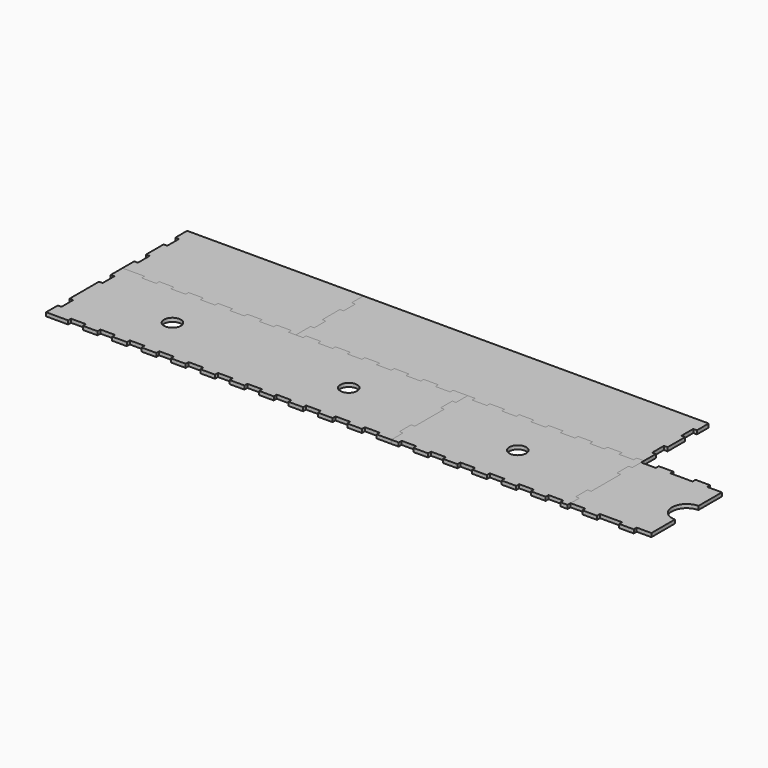
from build123d import *

# Parameters (mm, degrees)
F0_R     = 14.605
F1_DEPTH = 6.35
F2_R     = 14.605
F3_DEPTH = 6.35
F4_W     = 25.4
F4_H     = 6.35
F4_W_2   = 12.7
F5_DEPTH = 6.35
F6_W     = 6.35
F6_H     = 25.4
F6_W_2   = 12.7
F6_H_2   = 6.35
F6_W_3   = 25.4
F7_DEPTH = 6.35
F8_W     = 25.4
F8_H     = 6.35
F8_W_2   = 6.35
F8_H_2   = 25.4
F9_DEPTH = 6.35


with BuildPart() as f1:
    # F0 (on Top) → F1 (new body)
    with BuildSketch(Plane.XY):
        Polygon((-266.865468, 96.312749), (-304.965468, 96.312749), (-304.965468, 70.912749), (-298.615468, 70.912749), (-298.615468, 45.512749), (-304.965468, 45.512749), (-304.965468, -17.987251), (-298.615468, -17.987251), (-298.615468, -43.387251), (-304.965468, -43.387251), (-304.965468, -68.787251), (-266.865468, -68.787251), (-266.865468, -62.437251), (-241.465468, -62.437251), (-241.465468, -68.787251), (-216.065468, -68.787251), (-216.065468, -62.437251), (-190.665468, -62.437251), (-190.665468, -68.787251), (-165.265468, -68.787251), (-165.265468, -62.437251), (-139.865468, -62.437251), (-139.865468, -68.787251), (-114.465468, -68.787251), (-114.465468, -62.437251), (-89.065468, -62.437251), (-89.065468, -68.787251), (-63.665468, -68.787251), (-63.665468, -62.437251), (-38.265468, -62.437251), (-38.265468, -68.787251), (-12.865468, -68.787251), (-12.865468, -62.437251), (12.534532, -62.437251), (12.534532, -68.787251), (37.934532, -68.787251), (37.934532, -62.437251), (63.334532, -62.437251), (63.334532, -68.787251), (88.734532, -68.787251), (88.734532, -62.437251), (114.134532, -62.437251), (114.134532, -68.787251), (139.534532, -68.787251), (139.534532, -62.437251), (164.934532, -62.437251), (164.934532, -68.787251), (190.334532, -68.787251), (190.334532, -62.437251), (215.734532, -62.437251), (215.734532, -68.787251), (241.134532, -68.787251), (241.134532, -62.437251), (266.534532, -62.437251), (266.534532, -68.787251), (291.934532, -68.787251), (291.934532, -43.387251), (285.584532, -43.387251), (285.584532, -17.987251), (291.934532, -17.987251), (291.934532, 45.512749), (285.584532, 45.512749), (285.584532, 70.912749), (291.934532, 70.912749), (291.934532, 96.312749), (266.534532, 96.312749), (266.534532, 89.962749), (241.134532, 89.962749), (241.134532, 96.312749), (215.734532, 96.312749), (215.734532, 89.962749), (190.334532, 89.962749), (190.334532, 96.312749), (164.934532, 96.312749), (164.934532, 89.962749), (139.534532, 89.962749), (139.534532, 96.312749), (114.134532, 96.312749), (114.134532, 89.962749), (88.734532, 89.962749), (88.734532, 96.312749), (63.334532, 96.312749), (63.334532, 89.962749), (37.934532, 89.962749), (37.934532, 96.312749), (12.534532, 96.312749), (12.534532, 89.962749), (-12.865468, 89.962749), (-12.865468, 96.312749), (-38.265468, 96.312749), (-38.265468, 89.962749), (-63.665468, 89.962749), (-63.665468, 96.312749), (-89.065468, 96.312749), (-89.065468, 89.962749), (-114.465468, 89.962749), (-114.465468, 96.312749), (-139.865468, 96.312749), (-139.865468, 89.962749), (-165.265468, 89.962749), (-165.265468, 96.312749), (-190.665468, 96.312749), (-190.665468, 89.962749), (-216.065468, 89.962749), (-216.065468, 96.312749), (-241.465468, 96.312749), (-241.465468, 89.962749), (-266.865468, 89.962749), align=None)
        with Locations((-152.565468, 13.762749)):
            Circle(F0_R, mode=Mode.SUBTRACT)
        with Locations((152.234532, 13.762749)):
            Circle(F0_R, mode=Mode.SUBTRACT)
    extrude(amount=F1_DEPTH)


with BuildPart() as f3:
    # F2 (on face) → F3 (new body)
    with BuildSketch(Plane.XY.offset(6.35)):
        Polygon((304.634532, 96.312749), (291.934532, 96.312749), (291.934532, 70.912749), (285.584532, 70.912749), (285.584532, 45.512749), (291.934532, 45.512749), (291.934532, -17.987251), (285.584532, -17.987251), (285.584532, -43.387251), (291.934532, -43.387251), (291.934532, -68.787251), (304.634532, -68.787251), (304.634532, -62.437251), (330.034532, -62.437251), (330.034532, -68.787251), (355.434532, -68.787251), (355.434532, -62.437251), (380.834532, -62.437251), (380.834532, -68.787251), (406.234532, -68.787251), (406.234532, -62.437251), (431.634532, -62.437251), (431.634532, -68.787251), (457.034532, -68.787251), (457.034532, -62.437251), (482.434532, -62.437251), (482.434532, -68.787251), (507.834532, -68.787251), (507.834532, -62.437251), (533.234532, -62.437251), (533.234532, -68.787251), (558.634532, -68.787251), (558.634532, -62.437251), (584.034532, -62.437251), (584.034532, -68.787251), (596.734532, -68.787251), (596.734532, -43.387251), (590.384532, -43.387251), (590.384532, -17.987251), (596.734532, -17.987251), (596.734532, 45.512749), (590.384532, 45.512749), (590.384532, 70.912749), (596.734532, 70.912749), (596.734532, 96.312749), (584.034532, 96.312749), (584.034532, 89.962749), (558.634532, 89.962749), (558.634532, 96.312749), (533.234532, 96.312749), (533.234532, 89.962749), (507.834532, 89.962749), (507.834532, 96.312749), (482.434532, 96.312749), (482.434532, 89.962749), (457.034532, 89.962749), (457.034532, 96.312749), (431.634532, 96.312749), (431.634532, 89.962749), (406.234532, 89.962749), (406.234532, 96.312749), (380.834532, 96.312749), (380.834532, 89.962749), (355.434532, 89.962749), (355.434532, 96.312749), (330.034532, 96.312749), (330.034532, 89.962749), (304.634532, 89.962749), align=None)
        with Locations((444.334532, 13.762749)):
            Circle(F2_R, mode=Mode.SUBTRACT)
    extrude(amount=-F3_DEPTH)


with BuildPart() as f5:
    # F4 (on face) → F5 (new body)
    with BuildSketch(Plane.XY.offset(6.35)):
        Polygon((584.034532, 96.312749), (596.734532, 96.312749), (596.734532, 121.712749), (590.384532, 121.712749), (590.384532, 147.112749), (596.734532, 147.112749), (596.734532, 185.212749), (590.384532, 185.212749), (590.384532, 210.612749), (596.734532, 210.612749), (596.734532, 236.012749), (-0.165468, 236.012749), (-0.165468, 210.612749), (6.184532, 210.612749), (6.184532, 185.212749), (-0.165468, 185.212749), (-0.165468, 147.112749), (6.184532, 147.112749), (6.184532, 121.712749), (-0.165468, 121.712749), (-0.165468, 96.312749), (12.534532, 96.312749), (37.934532, 96.312749), (63.334532, 96.312749), (88.734532, 96.312749), (114.134532, 96.312749), (139.534532, 96.312749), (164.934532, 96.312749), (190.334532, 96.312749), (215.734532, 96.312749), (241.134532, 96.312749), (266.534532, 96.312749), (304.634532, 96.312749), (330.034532, 96.312749), (355.434532, 96.312749), (380.834532, 96.312749), (406.234532, 96.312749), (431.634532, 96.312749), (457.034532, 96.312749), (482.434532, 96.312749), (507.834532, 96.312749), (533.234532, 96.312749), (558.634532, 96.312749), align=None)
        with Locations((571.334532, 93.137749)):
            Rectangle(F4_W, F4_H)
        with Locations((520.534532, 93.137749)):
            Rectangle(F4_W, F4_H)
        with Locations((469.734532, 93.137749)):
            Rectangle(F4_W, F4_H)
        with Locations((418.934532, 93.137749)):
            Rectangle(F4_W, F4_H)
        with Locations((368.134532, 93.137749)):
            Rectangle(F4_W, F4_H)
        with Locations((317.334532, 93.137749)):
            Rectangle(F4_W, F4_H)
        with Locations((253.834532, 93.137749)):
            Rectangle(F4_W, F4_H)
        with Locations((203.034532, 93.137749)):
            Rectangle(F4_W, F4_H)
        with Locations((152.234532, 93.137749)):
            Rectangle(F4_W, F4_H)
        with Locations((101.434532, 93.137749)):
            Rectangle(F4_W, F4_H)
        with Locations((6.184532, 93.137749)):
            Rectangle(F4_W_2, F4_H)
        with Locations((50.634532, 93.137749)):
            Rectangle(F4_W, F4_H)
    extrude(amount=-F5_DEPTH)


with BuildPart() as f7:
    # F6 (on face) → F7 (new body)
    with BuildSketch(Plane.XY.offset(6.35)):
        Polygon((-0.165468, 236.012749), (-304.965468, 236.012749), (-304.965468, 210.612749), (-298.615468, 210.612749), (-298.615468, 185.212749), (-304.965468, 185.212749), (-304.965468, 147.112749), (-298.615468, 147.112749), (-298.615468, 121.712749), (-304.965468, 121.712749), (-304.965468, 96.312749), (-266.865468, 96.312749), (-241.465468, 96.312749), (-216.065468, 96.312749), (-190.665468, 96.312749), (-165.265468, 96.312749), (-139.865468, 96.312749), (-114.465468, 96.312749), (-89.065468, 96.312749), (-63.665468, 96.312749), (-38.265468, 96.312749), (-12.865468, 96.312749), (-0.165468, 96.312749), (-0.165468, 121.712749), (-0.165468, 147.112749), (-0.165468, 185.212749), (-0.165468, 210.612749), align=None)
        with Locations((3.009532, 197.912749)):
            Rectangle(F6_W, F6_H)
        with Locations((3.009532, 134.412749)):
            Rectangle(F6_W, F6_H)
        with Locations((-6.515468, 93.137749)):
            Rectangle(F6_W_2, F6_H_2)
        with Locations((-50.965468, 93.137749)):
            Rectangle(F6_W_3, F6_H_2)
        with Locations((-101.765468, 93.137749)):
            Rectangle(F6_W_3, F6_H_2)
        with Locations((-254.165468, 93.137749)):
            Rectangle(F6_W_3, F6_H_2)
        with Locations((-152.565468, 93.137749)):
            Rectangle(F6_W_3, F6_H_2)
        with Locations((-203.365468, 93.137749)):
            Rectangle(F6_W_3, F6_H_2)
    extrude(amount=-F7_DEPTH)


with BuildPart() as f9:
    # F8 (on face) → F9 (new body)
    with BuildSketch(Plane.XY.offset(6.35)):
        with BuildLine():
            Line((622.134532, 89.962749), (596.734532, 89.962749))
            Line((596.734532, 89.962749), (596.734532, 70.912749))
            Line((596.734532, 70.912749), (596.734532, 45.512749))
            Line((596.734532, 45.512749), (596.734532, -17.987251))
            Line((596.734532, -17.987251), (596.734532, -43.387251))
            Line((596.734532, -43.387251), (596.734532, -62.437251))
            Line((596.734532, -62.437251), (622.134532, -62.437251))
            Line((622.134532, -62.437251), (647.534532, -62.437251))
            Line((647.534532, -62.437251), (685.634532, -62.437251))
            Line((685.634532, -62.437251), (711.034532, -62.437251))
            Line((711.034532, -62.437251), (736.434532, -62.437251))
            Line((736.434532, -62.437251), (736.434532, -11.637251))
            ThreePointArc((736.434532, -11.637251), (711.034532, 13.762749), (736.434532, 39.162749))
            Line((736.434532, 39.162749), (736.434532, 89.962749))
            Line((736.434532, 89.962749), (711.034532, 89.962749))
            Line((711.034532, 89.962749), (685.634532, 89.962749))
            Line((685.634532, 89.962749), (647.534532, 89.962749))
            Line((647.534532, 89.962749), (622.134532, 89.962749))
        make_face()
        with Locations((634.834532, 93.137749)):
            Rectangle(F8_W, F8_H)
        with Locations((593.559532, 58.212749)):
            Rectangle(F8_W_2, F8_H_2)
        with Locations((698.334532, 93.137749)):
            Rectangle(F8_W, F8_H)
        with Locations((593.559532, -30.687251)):
            Rectangle(F8_W_2, F8_H_2)
        with Locations((634.834532, -65.612251)):
            Rectangle(F8_W, F8_H)
        with Locations((698.334532, -65.612251)):
            Rectangle(F8_W, F8_H)
    extrude(amount=-F9_DEPTH)


solid = Compound([f1.part, f3.part, f5.part, f7.part, f9.part])
